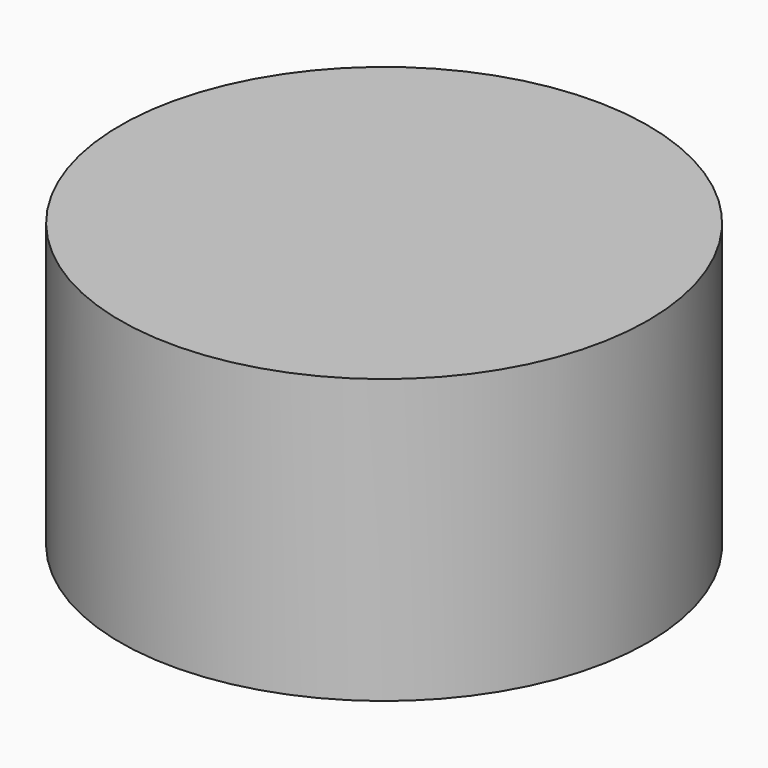
from build123d import *

# Parameters (mm, degrees)
CYLINDER_R     = 13.97
CYLINDER_DEPTH = 15


with BuildPart() as part:
    # Cylinder → Cylinder (new body)
    with BuildSketch(Plane.XY.offset(-2.5)):
        Circle(CYLINDER_R)
    extrude(amount=CYLINDER_DEPTH)


solid = part.part
